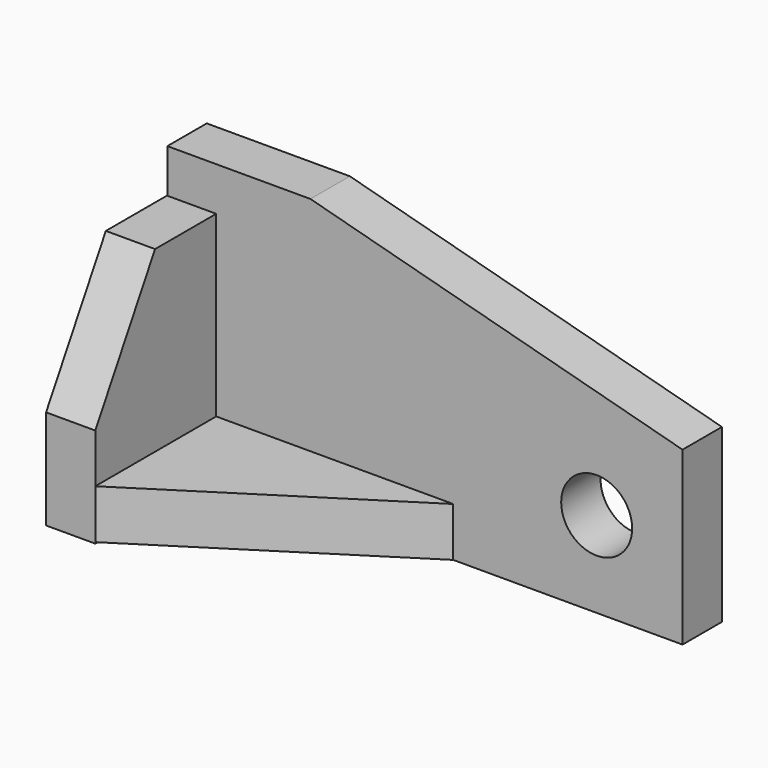
from build123d import *

# Parameters (mm, degrees)
F1_DEPTH = 10.922
F2_W     = 10.922
F2_H     = 50.8
F3_DEPTH = 44.45
F5_DEPTH = 10.923
F6_W     = 52.578
F6_H     = 10.922
F7_DEPTH = 33.528
F9_DEPTH = 11.220986
F11_D    = 15.748


with BuildPart() as f1:
    # F0 (on Front) → F1 (new body)
    with BuildSketch(Plane.XZ):
        Polygon((-38.014861, 28.164199), (-38.014861, -32.033801), (76.285139, -32.033801), (76.285139, 6.044993), (-6.264861, 28.164199), align=None)
    extrude(amount=F1_DEPTH)

    # F2 (on Front) → F3 (join)
    with BuildSketch(Plane.XZ):
        with Locations((-32.639, -6.931787)):
            Rectangle(F2_W, F2_H)
    extrude(amount=F3_DEPTH)

    # F4 (on face) → F5 (cut, through all)
    with BuildSketch(Plane.YZ.offset(-27.178)):
        Polygon((-44.45, 18.468213), (-44.45, -10.233787), (-27.878893, 18.468213), align=None)
    extrude(amount=-F5_DEPTH, mode=Mode.SUBTRACT)

    # F6 (on face) → F7 (join)
    with BuildSketch(Plane.XZ.offset(10.922)):
        with Locations((-0.889, -26.572801)):
            Rectangle(F6_W, F6_H)
    extrude(amount=F7_DEPTH)

    # F8 (on face) → F9 (cut, through all)
    with BuildSketch(Plane.XY.offset(-21.111801)):
        Polygon((25.4, -10.922), (-27.178, -44.45), (25.4, -44.45), align=None)
    extrude(amount=-F9_DEPTH, mode=Mode.SUBTRACT)

    # F11 (through all)
    with Locations(Plane.XZ.offset(10.922)):
        with Locations((57.235139, -12.983801)):
            Hole(F11_D / 2)


solid = f1.part
